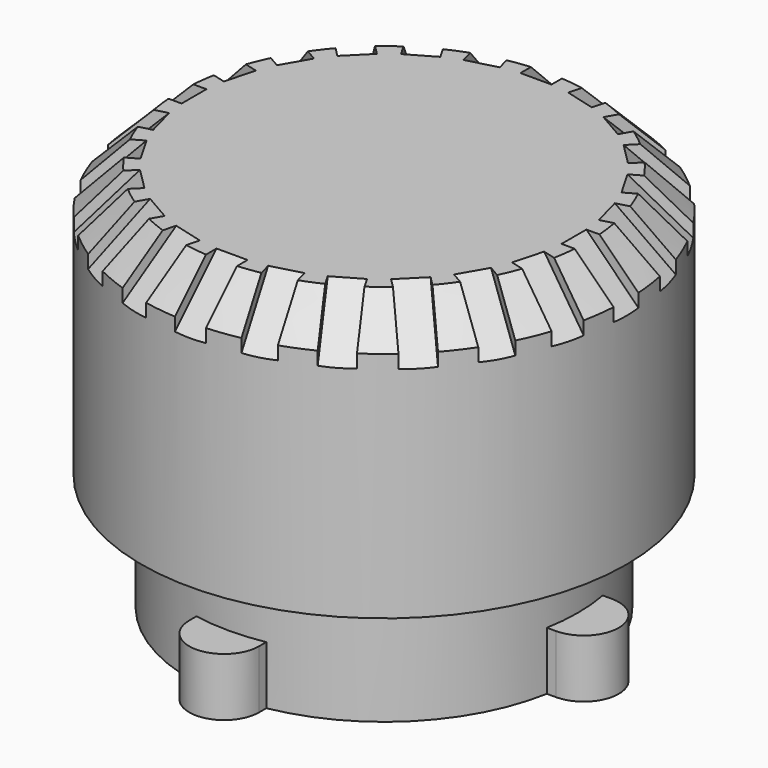
from build123d import *

# Parameters (mm, degrees)
PAD_DEPTH             = 3
POLARPATTERN_COUNT    = 4
SKETCH002_R           = 12.5
PAD001_DEPTH          = 10
POCKET_DEPTH          = 6
CHAMFER_SIZE          = 2
POCKET001_DEPTH       = 8
SKETCH005_R           = 12.5
SKETCH005_R_2         = 11
PAD002_DEPTH          = 4
POCKET002_DEPTH       = 0.8
POCKET002_DEPTH_BACK  = 0.8
POLARPATTERN001_COUNT = 24
SKETCH007_W           = 20
SKETCH007_H           = 1.6
POCKET003_DEPTH       = 0.5
CHAMFER001_SIZE       = 1
CHAMFER002_SIZE       = 0.5


with BuildPart() as cover:
    # Sketch → Revolution (revolve)
    with BuildSketch(Plane.XZ):
        Polygon((-10, 0), (-10, 5.302235), (-5.008018, 9), (-4, 9), (-9.4, 5), (-9.4, 0), align=None)
    revolve(axis=Axis((0, 0, 0), (0, 0, 1)))

    # Sketch001 → Pad (new body)
    with BuildSketch(Plane.XY):
        with BuildLine():
            ThreePointArc((-10.3, 1.8), (-12.1, 0), (-10.3, -1.8))
            Line((-10.3, -1.8), (-9.6, -1.8))
            Line((-9.6, -1.8), (-9.6, 1.8))
            Line((-9.6, 1.8), (-10.3, 1.8))
        make_face()
        with BuildLine():
            ThreePointArc((10.3, -1.8), (12.1, 0), (10.3, 1.8))
            Line((10.3, 1.8), (9.6, 1.8))
            Line((9.6, 1.8), (9.6, -1.8))
            Line((10.3, -1.8), (9.6, -1.8))
        make_face()
    pad = extrude(amount=PAD_DEPTH)

    # PolarPattern: Pad ×4 about axis
    polarpattern_axis = Axis((0, 0, 0), (0, 0, 1))
    for i in range(1, POLARPATTERN_COUNT):
        add(pad.rotate(polarpattern_axis, i * 360 / POLARPATTERN_COUNT))


with BuildPart() as knob:
    # Sketch002 → Pad001 (new body)
    with BuildSketch(Plane.XY):
        Circle(SKETCH002_R)
    extrude(amount=PAD001_DEPTH)

    # Sketch003 → Pocket (cut)
    with BuildSketch(Plane.XY):
        with BuildLine():
            ThreePointArc((-2.93428, 1), (0, -3.1), (2.93428, 1))
            Line((-2.93428, 1), (2.93428, 1))
        make_face()
    extrude(amount=POCKET_DEPTH, mode=Mode.SUBTRACT)

    # Chamfer
    chamfer_edges = [knob.edges().sort_by_distance(p)[0] for p in [
        (-12.5, 0, 10),
    ]]
    chamfer(chamfer_edges, length=CHAMFER_SIZE)

    # Sketch004 → Pocket001 (cut)
    with BuildSketch(Plane.XY):
        with BuildLine():
            Line((-10, 0.8), (-10, 0.7))
            ThreePointArc((-10, 0.7), (-9.941421, 0.558579), (-9.8, 0.5))
            Line((-9.8, 0.5), (9.8, 0.5))
            ThreePointArc((9.8, 0.5), (9.941421, 0.558579), (10, 0.7))
            Line((10, 0.7), (10, 0.8))
            ThreePointArc((10, 0.8), (9.941421, 0.941421), (9.8, 1))
            Line((9.8, 1), (-9.8, 1))
            ThreePointArc((-9.8, 1), (-9.941421, 0.941421), (-10, 0.8))
        make_face()
        with BuildLine():
            Line((-10, 2.6), (-10, 2.4))
            ThreePointArc((-10, 2.4), (-9.882843, 2.117157), (-9.6, 2))
            Line((-9.6, 2), (9.6, 2))
            ThreePointArc((9.6, 2), (9.882843, 2.117157), (10, 2.4))
            Line((10, 2.4), (10, 2.6))
            ThreePointArc((10, 2.6), (9.882843, 2.882843), (9.6, 3))
            Line((9.6, 3), (-9.6, 3))
            ThreePointArc((-9.6, 3), (-9.882843, 2.882843), (-10, 2.6))
        make_face()
    extrude(amount=POCKET001_DEPTH, mode=Mode.SUBTRACT)

    # Sketch005 → Pad002 (join)
    with BuildSketch(Plane.XY):
        Circle(SKETCH005_R)
        Circle(SKETCH005_R_2, mode=Mode.SUBTRACT)
    extrude(amount=-PAD002_DEPTH)

    # Sketch006 → Pocket002 (cut, two sides)
    with BuildSketch(Plane.YZ) as pocket002_sk:
        Polygon((-9.792893, 10), (-12.5, 7.292893), (-12.853553, 7.646447), (-10.146447, 10.353553), align=None)
    pocket002 = extrude(amount=-POCKET002_DEPTH, mode=Mode.SUBTRACT) + extrude(pocket002_sk.sketch, amount=POCKET002_DEPTH_BACK, mode=Mode.SUBTRACT)

    # PolarPattern001: Pocket002 ×24 about axis
    polarpattern001_axis = Axis((0, 0, 0), (0, 0, 1))
    for i in range(1, POLARPATTERN001_COUNT):
        add(pocket002.rotate(polarpattern001_axis, i * 360 / POLARPATTERN001_COUNT), mode=Mode.SUBTRACT)

    # Sketch007 (on Face120 of PolarPattern001) → Pocket003 (cut)
    with BuildSketch(Plane(origin=(0, 0, 6), x_dir=(1, 0, 0), z_dir=(0, 0, -1))):
        with Locations((0, -1.6)):
            Rectangle(SKETCH007_W, SKETCH007_H)
    extrude(amount=POCKET003_DEPTH, mode=Mode.SUBTRACT)

    # Chamfer001
    chamfer001_edges = [knob.edges().sort_by_distance(p)[0] for p in [
        (0, -3.1, 0),
    ]]
    chamfer(chamfer001_edges, length=CHAMFER001_SIZE)

    # Chamfer002
    chamfer002_edges = [knob.edges().sort_by_distance(p)[0] for p in [
        (0, 1, 0),
    ]]
    chamfer(chamfer002_edges, length=CHAMFER002_SIZE)


with BuildPart() as knob_1:
    # Body001 placement: moved
    add(knob.part.moved(Location((0, 0, 10))))


solid = Compound([cover.part, knob_1.part])
